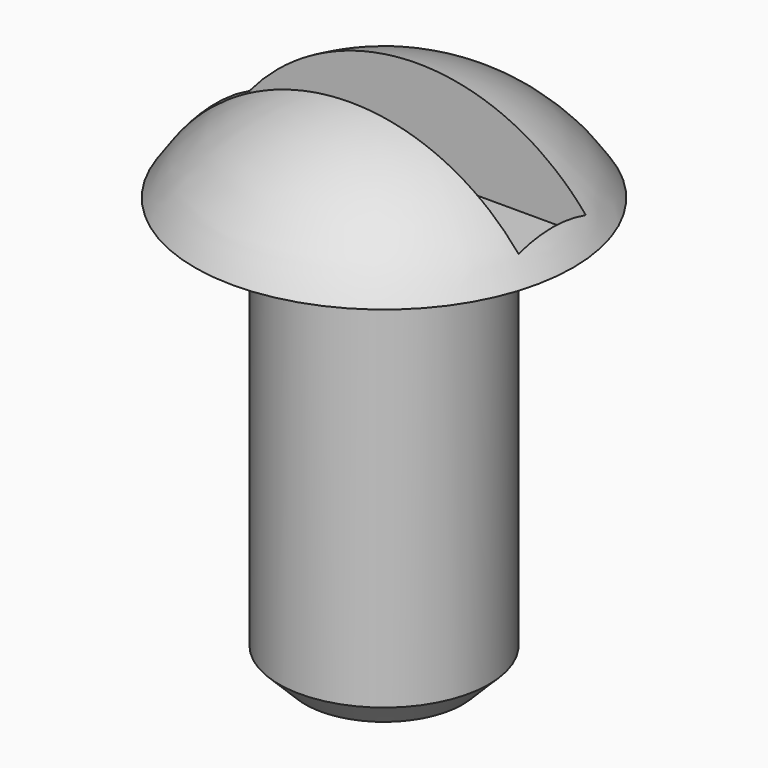
from build123d import *

# Parameters (mm, degrees)
F3_W     = 10.16
F3_H     = 2.54
F4_DEPTH = 3.048
F5_SIZE  = 0.79375


with BuildPart() as f1:
    # F0 (on Front) → F1 (revolve)
    with BuildSketch(Plane.XZ):
        with BuildLine():
            Line((0, 15.875), (0, 0))
            Line((0, 0), (3.175, 0))
            Line((3.175, 0), (3.175, 12.7))
            Line((3.175, 12.7), (5.715, 12.7))
            ThreePointArc((5.715, 12.7), (3.268863, 15.027953), (0, 15.875))
        make_face()
    revolve(axis=Axis((0, 0, 7.9375), (0, 0, 1)))

    # F3 (on offset) → F4 (cut)
    with BuildSketch(Plane.XY.offset(15.875)):
        Rectangle(F3_W, F3_H)
    extrude(amount=-F4_DEPTH, mode=Mode.SUBTRACT)

    # F5
    f5_edges = [f1.edges().sort_by_distance(p)[0] for p in [
        (-3.175, 0, 0),
    ]]
    chamfer(f5_edges, length=F5_SIZE)


solid = f1.part
